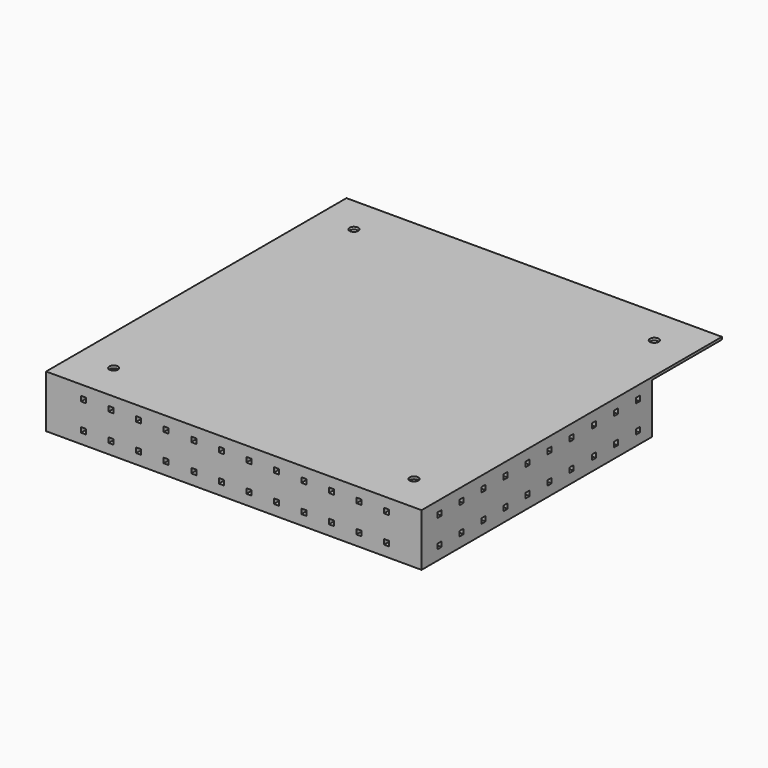
from build123d import *

# Parameters (mm, degrees)
F0_R     = 1.75
F0_W     = 3
F0_H     = 40
F1_DEPTH = 1
F2_DEPTH = 20
F3_W     = 2
F3_H     = 2
F4_DEPTH = 200
F5_W     = 2
F5_H     = 2
F6_DEPTH = 25


with BuildPart() as f1:
    # F0 (on Top) → F1 (new body)
    with BuildSketch(Plane.XY):
        Polygon((72, -72), (72, 0), (72, 40), (72, 72), (-72, 72), (-72, 40), (-72, 0), (-72, -72), align=None)
        with Locations((-60, -60)):
            Circle(F0_R, mode=Mode.SUBTRACT)
        with Locations((60, -60)):
            Circle(F0_R, mode=Mode.SUBTRACT)
        with Locations((-60, 60)):
            Circle(F0_R, mode=Mode.SUBTRACT)
        with Locations((60, 60)):
            Circle(F0_R, mode=Mode.SUBTRACT)
        Polygon((72, 40), (75, 40), (75, 75), (-75, 75), (-75, 40), (-72, 40), (-72, 72), (72, 72), align=None)
        Polygon((-75, -75), (75, -75), (75, 0), (72, 0), (72, -72), (-72, -72), (-72, 0), (-75, 0), align=None)
        with Locations((-73.5, 20)):
            Rectangle(F0_W, F0_H)
        with Locations((73.5, 20)):
            Rectangle(F0_W, F0_H)
    extrude(amount=F1_DEPTH)

    # F0 (on Top) → F2 (join)
    with BuildSketch(Plane.XY):
        Polygon((-75, -75), (75, -75), (75, 0), (72, 0), (72, -72), (-72, -72), (-72, 0), (-75, 0), align=None)
        with Locations((73.5, 20)):
            Rectangle(F0_W, F0_H)
        with Locations((-73.5, 20)):
            Rectangle(F0_W, F0_H)
    extrude(amount=-F2_DEPTH)

    # F3 (on face) → F4 (cut)
    with BuildSketch(Plane(origin=(-75, 0, 0), x_dir=(0, -1, 0), z_dir=(-1, 0, 0))):
        with Locations((-33, -4)):
            Rectangle(F3_W, F3_H)
        with Locations((-33, -15)):
            Rectangle(F3_W, F3_H)
        with Locations((-22, -4)):
            Rectangle(F3_W, F3_H)
        with Locations((-11, -4)):
            Rectangle(F3_W, F3_H)
        with Locations((-11, -15)):
            Rectangle(F3_W, F3_H)
        with Locations((-22, -15)):
            Rectangle(F3_W, F3_H)
        with Locations((0, -15)):
            Rectangle(F3_W, F3_H)
        with Locations((11, -15)):
            Rectangle(F3_W, F3_H)
        with Locations((22, -15)):
            Rectangle(F3_W, F3_H)
        with Locations((33, -15)):
            Rectangle(F3_W, F3_H)
        with Locations((44, -15)):
            Rectangle(F3_W, F3_H)
        with Locations((55, -15)):
            Rectangle(F3_W, F3_H)
        with Locations((66, -15)):
            Rectangle(F3_W, F3_H)
        with Locations((66, -4)):
            Rectangle(F3_W, F3_H)
        with Locations((55, -4)):
            Rectangle(F3_W, F3_H)
        with Locations((44, -4)):
            Rectangle(F3_W, F3_H)
        with Locations((33, -4)):
            Rectangle(F3_W, F3_H)
        with Locations((22, -4)):
            Rectangle(F3_W, F3_H)
        with Locations((11, -4)):
            Rectangle(F3_W, F3_H)
        with Locations((0, -4)):
            Rectangle(F3_W, F3_H)
    extrude(amount=-F4_DEPTH, mode=Mode.SUBTRACT)

    # F5 (on face) → F6 (cut)
    with BuildSketch(Plane.XZ.offset(75)):
        with Locations((-60, -4)):
            Rectangle(F5_W, F5_H)
        with Locations((-60, -15)):
            Rectangle(F5_W, F5_H)
        with Locations((-49, -4)):
            Rectangle(F5_W, F5_H)
        with Locations((-49, -15)):
            Rectangle(F5_W, F5_H)
        with Locations((-38, -4)):
            Rectangle(F5_W, F5_H)
        with Locations((-38, -15)):
            Rectangle(F5_W, F5_H)
        with Locations((-27, -4)):
            Rectangle(F5_W, F5_H)
        with Locations((-16, -4)):
            Rectangle(F5_W, F5_H)
        with Locations((-5, -4)):
            Rectangle(F5_W, F5_H)
        with Locations((6, -4)):
            Rectangle(F5_W, F5_H)
        with Locations((17, -4)):
            Rectangle(F5_W, F5_H)
        with Locations((28, -4)):
            Rectangle(F5_W, F5_H)
        with Locations((39, -4)):
            Rectangle(F5_W, F5_H)
        with Locations((50, -4)):
            Rectangle(F5_W, F5_H)
        with Locations((61, -4)):
            Rectangle(F5_W, F5_H)
        with Locations((61, -15)):
            Rectangle(F5_W, F5_H)
        with Locations((50, -15)):
            Rectangle(F5_W, F5_H)
        with Locations((39, -15)):
            Rectangle(F5_W, F5_H)
        with Locations((28, -15)):
            Rectangle(F5_W, F5_H)
        with Locations((17, -15)):
            Rectangle(F5_W, F5_H)
        with Locations((6, -15)):
            Rectangle(F5_W, F5_H)
        with Locations((-5, -15)):
            Rectangle(F5_W, F5_H)
        with Locations((-16, -15)):
            Rectangle(F5_W, F5_H)
        with Locations((-27, -15)):
            Rectangle(F5_W, F5_H)
    extrude(amount=-F6_DEPTH, mode=Mode.SUBTRACT)


solid = f1.part
